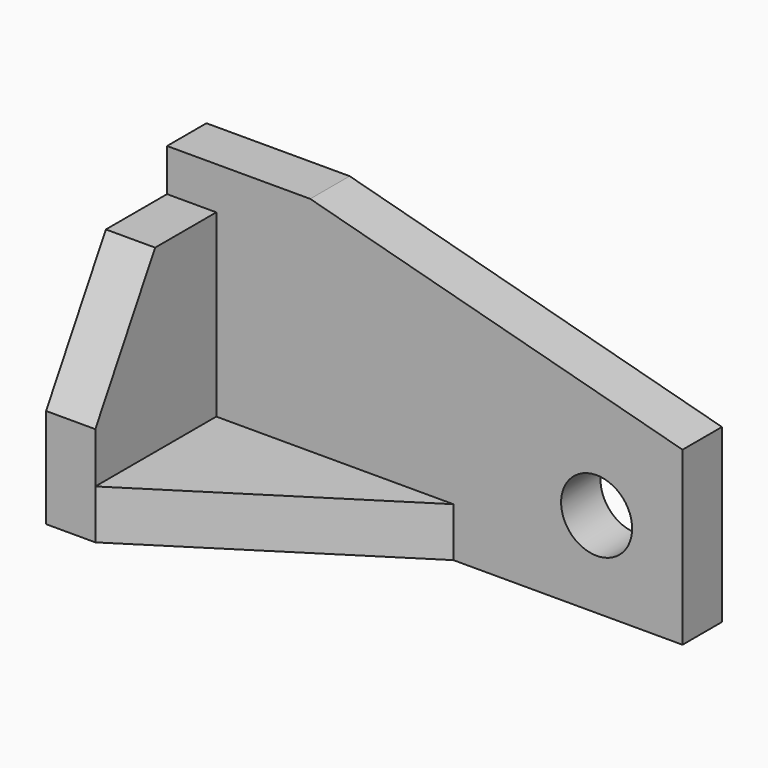
from build123d import *

# Parameters (mm, degrees)
F1_DEPTH = 10.922
F2_R     = 7.874
F3_DEPTH = 10.923
F5_DEPTH = 10.922
F7_DEPTH = 10.922
F8_R     = 7.874
F9_DEPTH = 10.923


with BuildPart() as f1:
    # F0 (on Front) → F1 (new body)
    with BuildSketch(Plane.XZ):
        Polygon((20.828, 60.198), (-10.922, 60.198), (-10.922, 0), (20.828, 0), (103.378, 0), (103.378, 38.078794), align=None)
    extrude(amount=-F1_DEPTH)

    # F2 (on face) → F3 (cut, through all)
    with BuildSketch(Plane(origin=(0, 10.922, 0), x_dir=(-1, 0, 0), z_dir=(0, 1, 0))):
        with Locations((-122.428, 19.05)):
            Circle(F2_R)
    extrude(amount=-F3_DEPTH, mode=Mode.SUBTRACT)

    # F4 (on Right) → F5 (join)
    with BuildSketch(Plane.YZ):
        Polygon((-33.528, 0), (0, 0), (0, 50.8), (-16.956893, 50.8), (-33.528, 22.098), align=None)
    extrude(amount=-F5_DEPTH)

    # F6 (on Top) → F7 (join)
    with BuildSketch(Plane.XY):
        Polygon((52.578, 0), (0, 0), (0, -33.528), align=None)
    extrude(amount=F7_DEPTH)

    # F8 (on face) → F9 (cut, through all)
    with BuildSketch(Plane.XZ):
        with Locations((84.328, 19.05)):
            Circle(F8_R)
    extrude(amount=-F9_DEPTH, mode=Mode.SUBTRACT)


solid = f1.part
